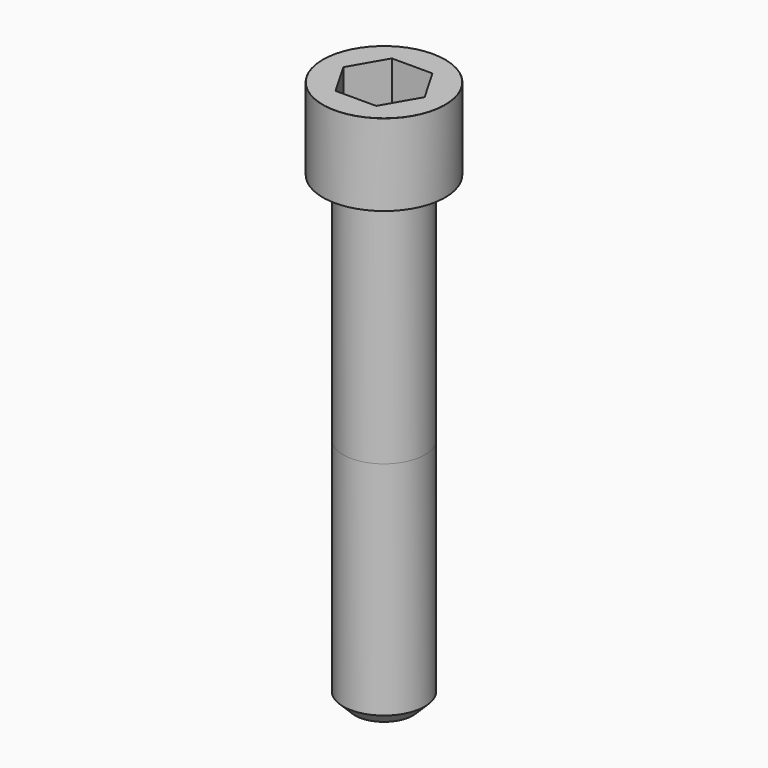
from build123d import *

# Parameters (mm, degrees)
POCKET_DEPTH = 12.07


with BuildPart() as part:
    # Sketch → Revolve (revolve)
    with BuildSketch(Plane.YZ):
        with BuildLine():
            Line((6.999, 0), (10.5, 0))
            Line((10.5, 0), (10.5, 13.97229))
            ThreePointArc((10.5, 13.97229), (10.491884, 13.991884), (10.47229, 14))
            Line((10.47229, 14), (0, 14))
            Line((0, -80), (0, 14))
            Line((5, -80), (0, -80))
            Line((7, -78), (5, -80))
            Line((7, -40), (7, -78))
            Line((6.999, 0), (7, -40))
        make_face()
    revolve(axis=Axis((0, 0, 0), (0, 0, 1)))

    # Sketch001 → Pocket (cut)
    with BuildSketch(Plane.XY.offset(14)):
        Polygon((6.968618, 0), (3.484309, 6.035), (-3.484309, 6.035), (-6.968618, 0), (-3.484309, -6.035), (3.484309, -6.035), align=None)
    extrude(amount=-POCKET_DEPTH, mode=Mode.SUBTRACT)


solid = part.part
